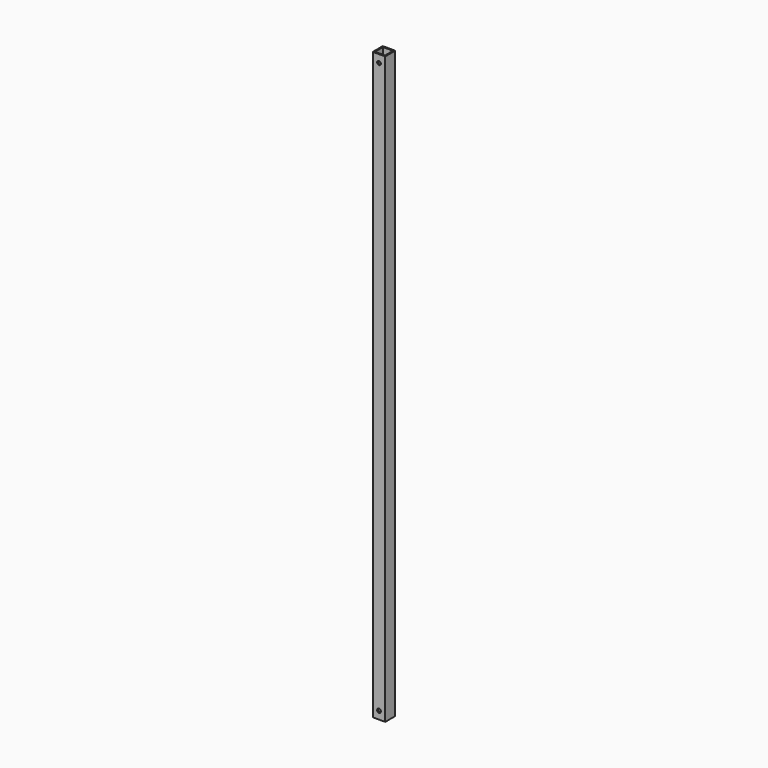
from build123d import *

# Parameters (mm, degrees)
F0_W     = 40
F0_H     = 1875
F0_R     = 6
F1_DEPTH = 40
F2_W     = 32
F2_H     = 32
F3_DEPTH = 1875.001


with BuildPart() as f1:
    # F0 (on Front) → F1 (new body)
    with BuildSketch(Plane.XZ):
        with Locations((20, 927.753484)):
            Rectangle(F0_W, F0_H)
        with Locations((20, 15.253484)):
            Circle(F0_R, mode=Mode.SUBTRACT)
        with Locations((20, 1840.253484)):
            Circle(F0_R, mode=Mode.SUBTRACT)
    extrude(amount=F1_DEPTH)

    # F2 (on face) → F3 (cut, through all)
    with BuildSketch(Plane.XY.offset(1865.253484)):
        with Locations((20, -20)):
            Rectangle(F2_W, F2_H)
    extrude(amount=-F3_DEPTH, mode=Mode.SUBTRACT)


solid = f1.part
